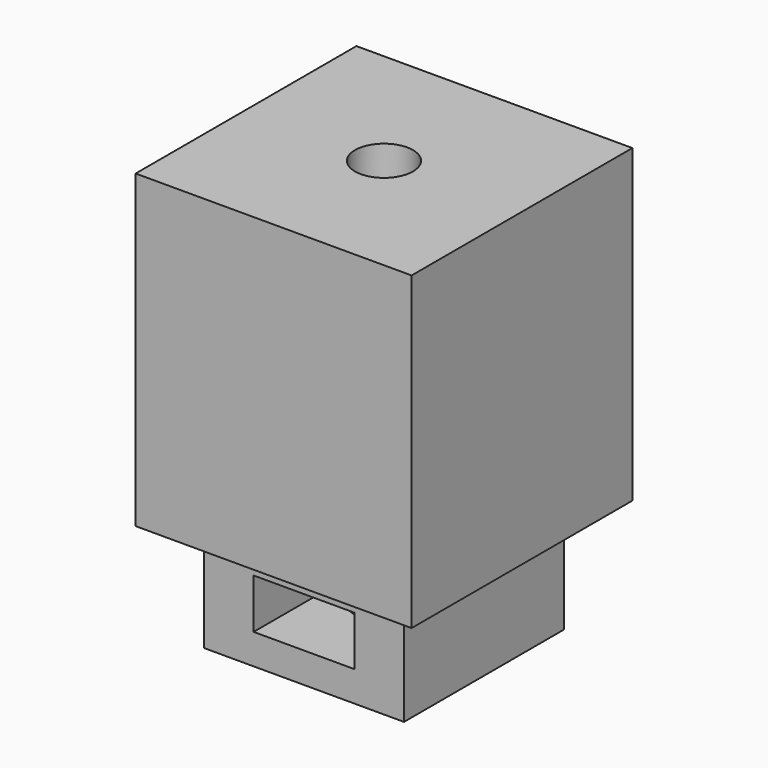
from build123d import *

# Parameters (mm, degrees)
F0_W      = 20
F0_H      = 20
F0_W_2    = 15
F0_H_2    = 15
F0_R      = 2.1
F1_DEPTH  = 2.5
F2_DEPTH  = 20
F3_W      = 14.5
F3_H      = 14.5
F4_DEPTH  = 4
F6_DEPTH  = 1.7
F7_DEPTH  = 4
F8_DEPTH  = 5.7
F9_W      = 7.3
F9_H      = 3.6
F10_DEPTH = 7.2
F11_W     = 14.5
F11_H     = 14.5
F12_DEPTH = 2.2
F13_W     = 14.5
F13_H     = 14.5
F14_DEPTH = 2.2
F15_R     = 2.1
F16_DEPTH = 53.6


with BuildPart() as f1:
    # F0 (on Top) → F1 (new body)
    with BuildSketch(Plane.XY):
        Rectangle(F0_W, F0_H)
        Rectangle(F0_W_2, F0_H_2, mode=Mode.SUBTRACT)
        Rectangle(F0_W_2, F0_H_2)
        Circle(F0_R, mode=Mode.SUBTRACT)
    extrude(amount=F1_DEPTH)

    # F0 (on Top) → F2 (join)
    with BuildSketch(Plane.XY):
        Rectangle(F0_W, F0_H)
        Rectangle(F0_W_2, F0_H_2, mode=Mode.SUBTRACT)
    extrude(amount=-F2_DEPTH)


with BuildPart() as f4:
    # F3 (on face) → F4 (new body)
    with BuildSketch(Plane(origin=(0, 0, -20), x_dir=(1, 0, 0), z_dir=(0, 0, -1))):
        Rectangle(F3_W, F3_H)
        Polygon((0, -4.2146569651), (-3.65, -2.1073284825), (-3.65, 2.1073284825), (0, 4.2146569651), (3.65, 2.1073284825), (3.65, -2.1073284825), align=None, mode=Mode.SUBTRACT)
    extrude(amount=F4_DEPTH)

    # F5 (on face) → F6 (cut)
    with BuildSketch(Plane(origin=(0, 0, -24), x_dir=(1, 0, 0), z_dir=(0, 0, -1))):
        Polygon((0, -4.2146569651), (-3.65, -2.1073284825), (-3.65, -7.25), (3.65, -7.25), (3.65, -2.1073284825), align=None)
    extrude(amount=-F6_DEPTH, mode=Mode.SUBTRACT)

    # F7 (add): a face of the model
    f7_faces = [f4.faces().sort_by_distance(p)[0] for p in [
        (5.45, 7.0449390335, -24),
    ]]
    extrude(f7_faces, amount=F7_DEPTH)

    # F8 (add, through all): a face of the model
    f8_faces = [f4.faces().sort_by_distance(p)[0] for p in [
        (0, 5.160244615, -22.3),
    ]]
    extrude(f8_faces, amount=F8_DEPTH)

    # F9 (on face) → F10 (cut)
    with BuildSketch(Plane.XZ.offset(7.25)):
        with Locations((0, -24)):
            Rectangle(F9_W, F9_H)
    extrude(amount=-F10_DEPTH, mode=Mode.SUBTRACT)

    # F11 (on face) → F12 (join, through all)
    with BuildSketch(Plane(origin=(0, 0, -28), x_dir=(1, 0, 0), z_dir=(0, 0, -1))):
        Rectangle(F11_W, F11_H)
    extrude(amount=-F12_DEPTH)

    # F13 (on face) → F14 (join, through all)
    with BuildSketch(Plane.XY.offset(-20)):
        Rectangle(F13_W, F13_H)
    extrude(amount=-F14_DEPTH)

    # F15 (on face) → F16 (cut)
    with BuildSketch(Plane.XY.offset(2.5)):
        Circle(F15_R)
    extrude(amount=-F16_DEPTH, mode=Mode.SUBTRACT)


solid = Compound([f1.part, f4.part])
